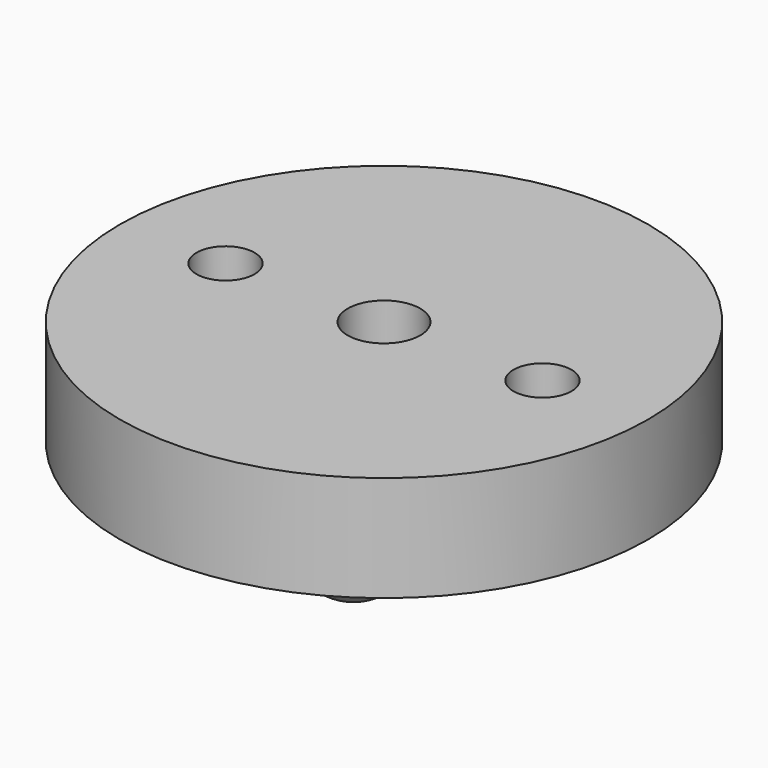
from build123d import *

# Parameters (mm, degrees)
CYLINDER005_R     = 20
CYLINDER005_DEPTH = 8
SKETCH006_R       = 2.2
SKETCH006_R_2     = 2.75
POCKET004_DEPTH   = 12.001
POCKET005_DEPTH   = 4


with BuildPart() as part:
    # Cylinder005 → Cylinder005 (join)
    with BuildSketch(Plane.XY):
        Circle(CYLINDER005_R)
    extrude(amount=CYLINDER005_DEPTH)

    # Sphere → Sphere (revolve)
    with BuildSketch(Plane(origin=(6, 10.392305, 0), x_dir=(1, 0, 0), z_dir=(0, -1, 0))):
        with BuildLine():
            ThreePointArc((0, -4), (2.828427, -2.828427), (4, 0))
            Line((4, 0), (0, 0))
            Line((0, 0), (0, -4))
        make_face()
    revolve(axis=Axis((6, 10.392305, 0), (0, 0, 1)))

    # Sphere001 → Sphere001 (revolve)
    with BuildSketch(Plane(origin=(6, -10.392305, 0), x_dir=(1, 0, 0), z_dir=(0, -1, 0))):
        with BuildLine():
            ThreePointArc((0, -4), (2.828427, -2.828427), (4, 0))
            Line((4, 0), (0, 0))
            Line((0, 0), (0, -4))
        make_face()
    revolve(axis=Axis((6, -10.392305, 0), (0, 0, 1)))

    # Sketch006 (on DatumPlane) → Pocket004 (cut, through all)
    with BuildSketch(Plane.XY.offset(8)):
        with Locations((-12, 0)):
            Circle(SKETCH006_R)
        with Locations((12, 0)):
            Circle(SKETCH006_R)
        Circle(SKETCH006_R_2)
    extrude(amount=-POCKET004_DEPTH, mode=Mode.SUBTRACT)

    # Sketch063 (on DatumPlane) → Pocket005 (cut)
    with BuildSketch(Plane(origin=(0, 0, 0), x_dir=(1, 0, 0), z_dir=(0, 0, -1))):
        Polygon((-9.892672, -3.65), (-7.785343, 0), (-9.892672, 3.65), (-14.107328, 3.65), (-16.214657, 0), (-14.107328, -3.65), align=None)
        Polygon((14.107328, -3.65), (16.214657, 0), (14.107328, 3.65), (9.892672, 3.65), (7.785343, 0), (9.892672, -3.65), align=None)
    extrude(amount=-POCKET005_DEPTH, mode=Mode.SUBTRACT)


with BuildPart() as part_1:
    # Body022003 placement: moved
    add(part.part.moved(Location((-2.5, 0, 885))))


solid = part_1.part
